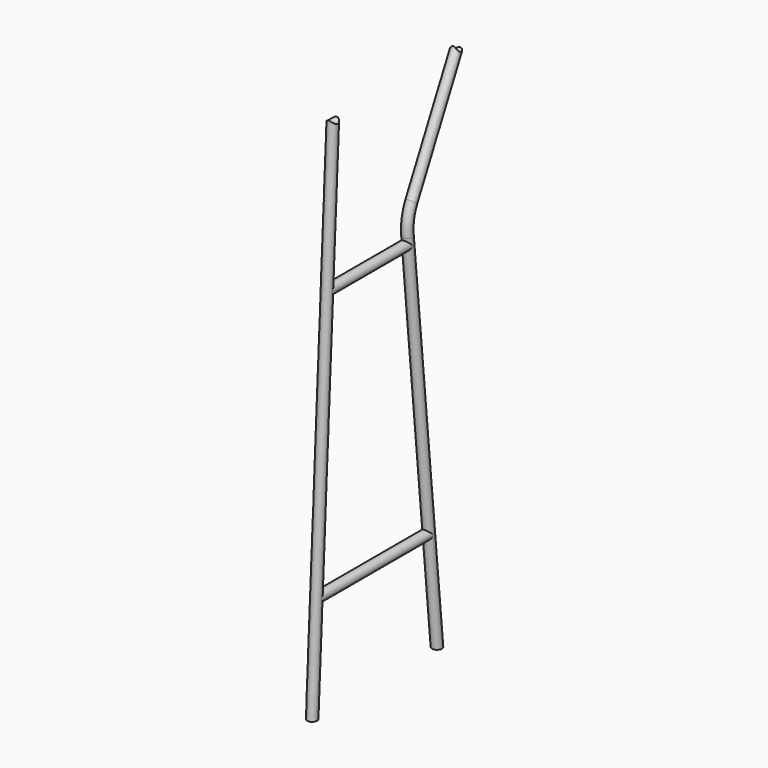
from build123d import *

# Parameters (mm, degrees)
F6_R           = 19
F5_R           = 19
F8_R           = 19
F7_R           = 19
F13_R          = 21
F14_DEPTH      = 100
F14_DEPTH_BACK = 25


with BuildPart() as f9:
    # F9: sweep along a path in F2
    with BuildLine(Plane.YZ) as f9_path:
        Line((528.4962440916, 1.9739866257), (386.7939909211, 1452.411225326))
        ThreePointArc((386.7939909211, 1452.411225326), (389.2303384108, 1508.4933636512), (407.155807506, 1561.6894122445))
        Line((407.155807506, 1561.6894122445), (628.4962440916, 2001.9739866257))
    # F6 (on Top) → F9 (sweep)
    with BuildSketch(Plane.XY):
        with Locations((0, 528.6890951472)):
            Circle(F6_R)
    sweep(path=f9_path.line)


with BuildPart() as f10:
    # F10: sweep along a path in F1
    with BuildLine(Plane.YZ) as f10_path:
        Line((-71.5037559084, 1.9739866257), (28.4962440916, 2001.9739866257))
    # F5 (on Top) → F10 (sweep)
    with BuildSketch(Plane.XY):
        with Locations((0, -71.6024552397)):
            Circle(F5_R)
    sweep(path=f10_path.line)


with BuildPart() as f11:
    # F11: sweep along a path in F3
    with BuildLine(Plane.YZ) as f11_path:
        Line((-51.5037559084, 401.9739866257), (489.4177512373, 401.9739866257))
    # F8 (on Front) → F11 (sweep)
    with BuildSketch(Plane.XZ):
        with Locations((0, 401.9739866257)):
            Circle(F8_R)
    sweep(path=f11_path.line)


with BuildPart() as f12:
    # F12: sweep along a path in F4
    with BuildLine(Plane.YZ) as f12_path:
        Line((-0.5037559084, 1421.9739866257), (389.7675944588, 1421.9739866257))
    # F7 (on Front) → F12 (sweep)
    with BuildSketch(Plane.XZ):
        with Locations((0, 1421.9739866257)):
            Circle(F7_R)
    sweep(path=f12_path.line)


with BuildPart() as f14_tool:
    # F13 (on Right) → F14 (new body, two sides)
    with BuildSketch(Plane.YZ) as f14_sk:
        with Locations((28.4962440916, 2001.9739866257)):
            Circle(F13_R)
        with Locations((628.4962440916, 2001.9739866257)):
            Circle(F13_R)
    extrude(amount=-F14_DEPTH)
    extrude(f14_sk.sketch, amount=F14_DEPTH_BACK)


with BuildPart() as f9_1:
    add(f9.part)

    # F14: cut by f14_tool
    add(f14_tool.part, mode=Mode.SUBTRACT)


with BuildPart() as f10_1:
    add(f10.part)

    # F14: cut by f14_tool
    add(f14_tool.part, mode=Mode.SUBTRACT)


solid = Compound([f11.part, f12.part, f9_1.part, f10_1.part])
